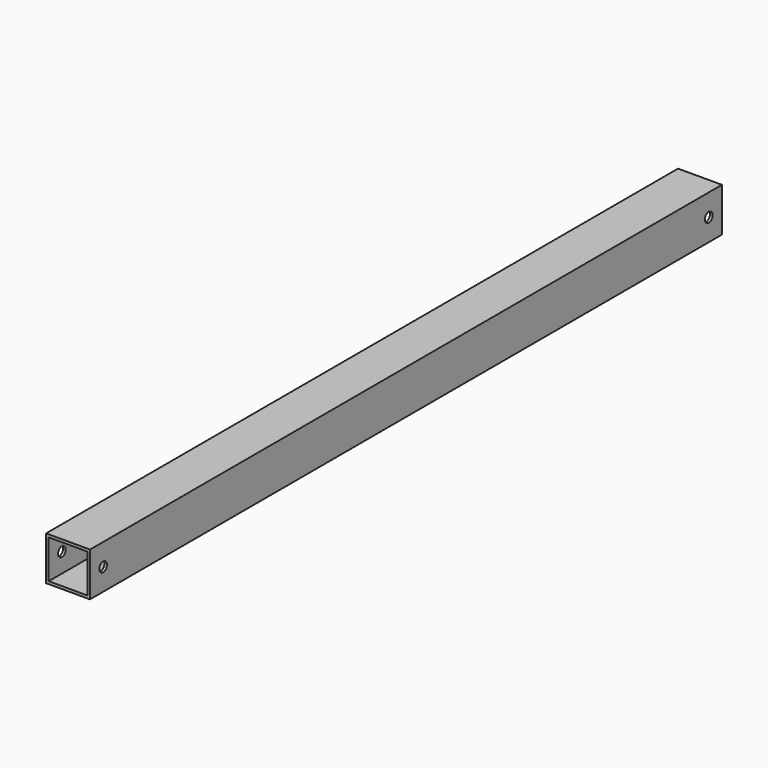
from build123d import *

# Parameters (mm, degrees)
F0_W     = 25.4
F0_H     = 25.4
F0_W_2   = 22.352
F0_H_2   = 22.352
F1_DEPTH = 457.2
F2_R     = 2.778125
F3_DEPTH = 25.4
F4_R     = 2.778125
F5_DEPTH = 25.4


with BuildPart() as f1:
    # F0 (on Front) → F1 (new body)
    with BuildSketch(Plane.XZ):
        Rectangle(F0_W, F0_H)
        Rectangle(F0_W_2, F0_H_2, mode=Mode.SUBTRACT)
    extrude(amount=-F1_DEPTH)

    # F2 (on face) → F3 (cut)
    with BuildSketch(Plane.YZ.offset(12.7)):
        with Locations((9.525, 0)):
            Circle(F2_R)
    extrude(amount=-F3_DEPTH, mode=Mode.SUBTRACT)

    # F4 (on face) → F5 (cut)
    with BuildSketch(Plane.YZ.offset(12.7)):
        with Locations((447.675, 0)):
            Circle(F4_R)
    extrude(amount=-F5_DEPTH, mode=Mode.SUBTRACT)


solid = f1.part
